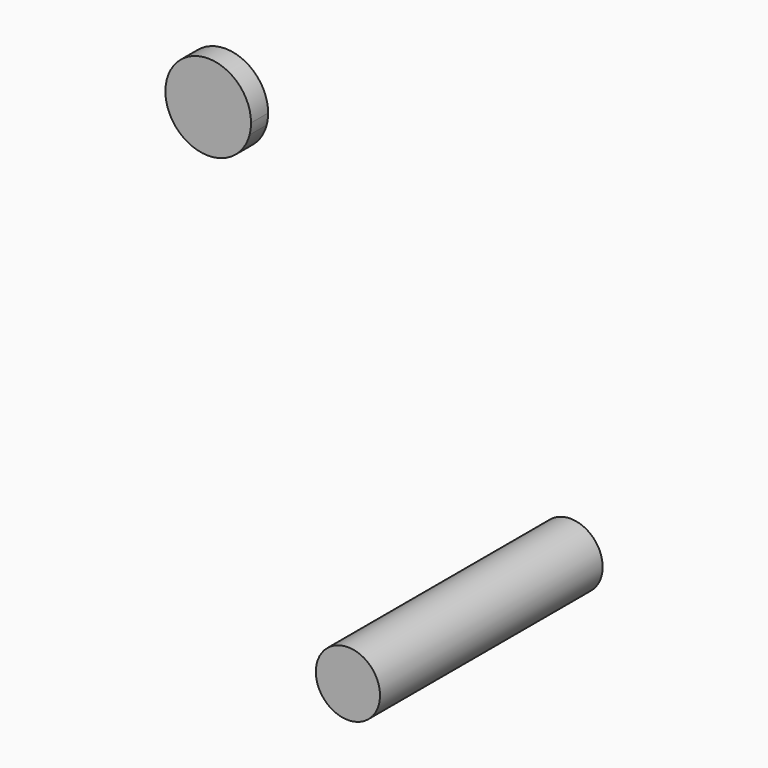
from build123d import *

# Parameters (mm, degrees)
F1_DEPTH = 39
F3_DEPTH = 3


with BuildPart() as f1:
    # F0 (on Front) → F1 (new body)
    with BuildSketch(Plane.XZ):
        with BuildLine():
            Line((-4.5, 0), (4.5, 0))
            ThreePointArc((4.5, 0), (0, 4.5), (-4.5, 0))
        make_face()
        with BuildLine():
            ThreePointArc((-4.5, 0), (0, -4.5), (4.5, 0))
            Line((4.5, 0), (-4.5, 0))
        make_face()
    extrude(amount=F1_DEPTH)


with BuildPart() as f3:
    # F2 (on Front) → F3 (new body)
    with BuildSketch(Plane.XZ):
        with BuildLine():
            ThreePointArc((-42.584113, 39.218962), (-42.432976, 39.983898), (-42.382312, 40.761974))
            ThreePointArc((-42.382312, 40.761974), (-47.604236, 46.71131), (-54.180511, 42.304985))
            Line((-54.180511, 42.304985), (-48.382312, 40.761974))
            Line((-48.382312, 40.761974), (-42.584113, 39.218962))
        make_face()
        with BuildLine():
            Line((-48.382312, 40.761974), (-54.180511, 42.304985))
            ThreePointArc((-54.180511, 42.304985), (-49.925324, 34.963774), (-42.584113, 39.218962))
            Line((-42.584113, 39.218962), (-48.382312, 40.761974))
        make_face()
    extrude(amount=F3_DEPTH)


solid = Compound([f1.part, f3.part])
